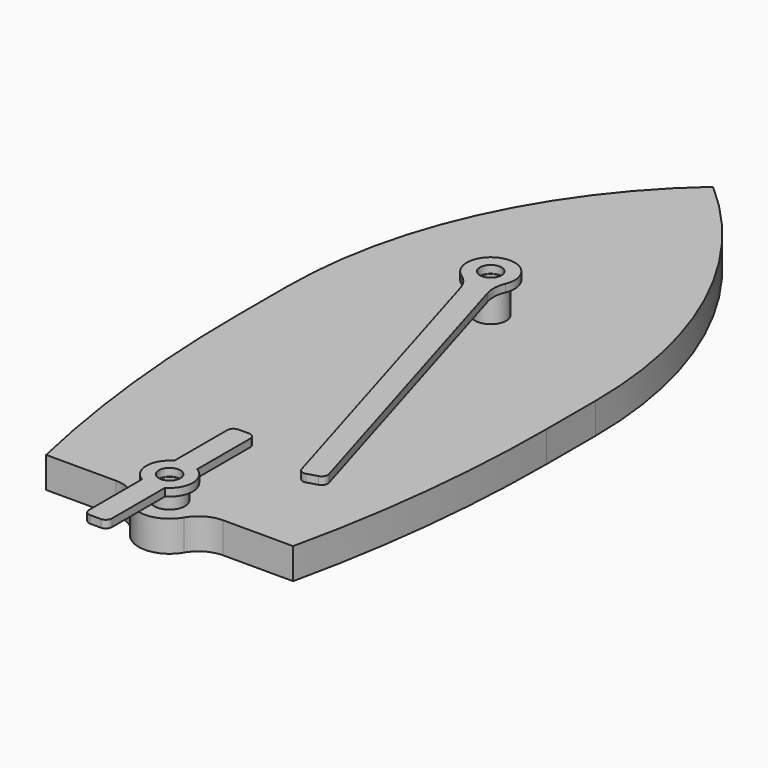
from build123d import *

# Parameters (mm, degrees)
F0_R     = 2.4638
F1_DEPTH = 6.35
F2_R     = 3.175
F2_R_2   = 2.1082
F3_DEPTH = 6.35
F4_R     = 3.175
F4_R_2   = 2.1082
F5_DEPTH = 3.175
F6_R     = 3.175
F6_R_2   = 2.2225
F7_DEPTH = 1.5748
F8_R     = 2.2225
F9_DEPTH = 1.5748


with BuildPart() as f1:
    # F0 (on Top) → F1 (new body)
    with BuildSketch(Plane.XY):
        with BuildLine():
            ThreePointArc((0, 69.85), (-23.4400761256, 38.3636709662), (-31.75, 0))
            Line((-31.75, 0), (-31.75, -12.7))
            ThreePointArc((-31.75, -12.7), (-30.1576303223, -41.4508478136), (-25.4, -69.85))
            Line((-25.4, -69.85), (-10.9985226281, -69.85))
            ThreePointArc((-10.9985226281, -69.85), (-7.8235226281, -70.700738686), (-5.499261314, -73.025))
            ThreePointArc((-5.499261314, -73.025), (0, -76.2), (5.499261314, -73.025))
            ThreePointArc((5.499261314, -73.025), (7.8235226281, -70.700738686), (10.9985226281, -69.85))
            Line((10.9985226281, -69.85), (25.4, -69.85))
            ThreePointArc((25.4, -69.85), (30.1576303223, -41.4508478136), (31.75, -12.7))
            Line((31.75, -12.7), (31.75, 0))
            ThreePointArc((31.75, 0), (23.4400761256, 38.3636709662), (0, 69.85))
        make_face()
        with Locations((0, -69.85)):
            Circle(F0_R, mode=Mode.SUBTRACT)
        with Locations((0, 12.7)):
            Circle(F0_R, mode=Mode.SUBTRACT)
    extrude(amount=F1_DEPTH)


with BuildPart() as f3:
    # F2 (on face) → F3 (new body)
    with BuildSketch(Plane.XY.offset(6.35)):
        with Locations((0, 12.7)):
            Circle(F2_R)
        with Locations((0, 12.7)):
            Circle(F2_R_2, mode=Mode.SUBTRACT)
    extrude(amount=F3_DEPTH)


with BuildPart() as f5:
    # F4 (on face) → F5 (new body)
    with BuildSketch(Plane.XY.offset(6.35)):
        with Locations((0, -69.85)):
            Circle(F4_R)
        with Locations((0, -69.85)):
            Circle(F4_R_2, mode=Mode.SUBTRACT)
    extrude(amount=F5_DEPTH)


with BuildPart() as f7:
    # F6 (on face) → F7 (new body)
    with BuildSketch(Plane.XY.offset(12.7)):
        with BuildLine():
            ThreePointArc((4.3069303436, 6.5334869638), (4.0503288857, 8.6875839131), (4.5337821143, 10.8023536288))
            ThreePointArc((4.5337821143, 10.8023536288), (-1.4064564275, 17.4093653848), (-2.7506026748, 8.6268652201))
            ThreePointArc((-2.7506026748, 8.6268652201), (-1.1866100755, 7.1235671378), (-0.2199014991, 5.1815443514))
            Line((-0.2199014991, 5.1815443514), (19.2259299593, -59.930693581))
            ThreePointArc((19.2259299593, -59.930693581), (19.8393294589, -60.6847201051), (20.8062456731, -60.7841584278))
            Line((20.8062456731, -60.7841584278), (22.8992969552, -60.1590666822))
            ThreePointArc((22.8992969552, -60.1590666822), (23.6533234794, -59.5456671826), (23.7527618021, -58.5787509685))
            Line((23.7527618021, -58.5787509685), (4.3069303436, 6.5334869638))
        make_face()
        with Locations((0, 12.7)):
            Circle(F6_R, mode=Mode.SUBTRACT)
        with Locations((0, 12.7)):
            Circle(F6_R)
        with Locations((0, 12.7)):
            Circle(F6_R_2, mode=Mode.SUBTRACT)
    extrude(amount=F7_DEPTH)


with BuildPart() as f9:
    # F8 (on face) → F9 (new body)
    with BuildSketch(Plane.XY.offset(9.525)):
        with BuildLine():
            Line((-2.3622, -52.07), (-2.3622, -65.714613995))
            ThreePointArc((-2.3622, -65.714613995), (-4.7625, -69.85), (-2.3622, -73.985386005))
            Line((-2.3622, -73.985386005), (-2.3622, -87.63))
            ThreePointArc((-2.3622, -87.63), (-1.9902256121, -88.5280256121), (-1.0922, -88.9))
            Line((-1.0922, -88.9), (1.0922, -88.9))
            ThreePointArc((1.0922, -88.9), (1.9902256121, -88.5280256121), (2.3622, -87.63))
            Line((2.3622, -87.63), (2.3622, -73.985386005))
            ThreePointArc((2.3622, -73.985386005), (4.7625, -69.85), (2.3622, -65.714613995))
            Line((2.3622, -65.714613995), (2.3622, -52.07))
            ThreePointArc((2.3622, -52.07), (1.9902256121, -51.1719743879), (1.0922, -50.8))
            Line((1.0922, -50.8), (-1.0922, -50.8))
            ThreePointArc((-1.0922, -50.8), (-1.9902256121, -51.1719743879), (-2.3622, -52.07))
        make_face()
        with Locations((0, -69.85)):
            Circle(F8_R, mode=Mode.SUBTRACT)
    extrude(amount=F9_DEPTH)


solid = Compound([f1.part, f3.part, f5.part, f7.part, f9.part])
